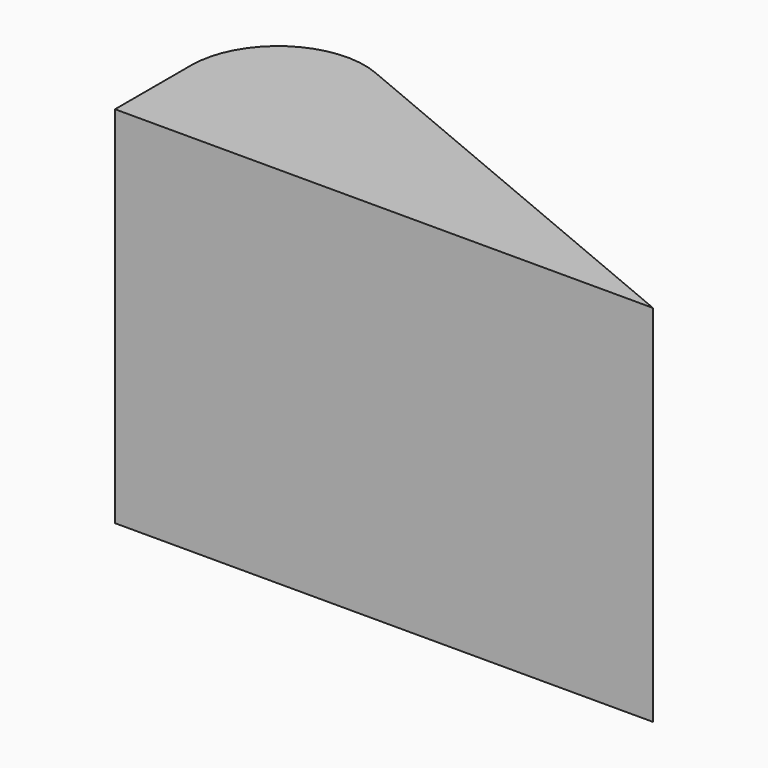
from build123d import *

# Parameters (mm, degrees)
F1_DEPTH = 21
F2_R     = 5


with BuildPart() as f1:
    # F0 (on Top) → F1 (new body)
    with BuildSketch(Plane.XY):
        Polygon((0, 13), (0, 0), (31, 0), align=None)
        Polygon((0, 13), (0, 0), (31, 0), align=None)
    extrude(amount=F1_DEPTH)

    # F2
    f2_edges = [f1.edges().sort_by_distance(p)[0] for p in [
        (0, 13, 10.5),
    ]]
    fillet(f2_edges, radius=F2_R)


solid = f1.part
